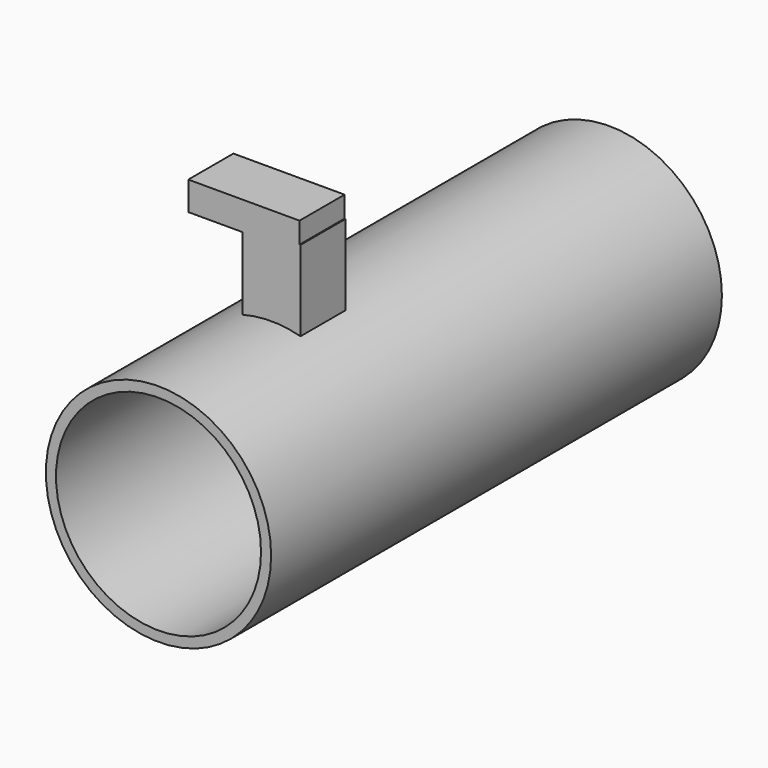
from build123d import *

# Parameters (mm, degrees)
F0_R     = 5.077075
F1_DEPTH = 25.4
F2_R     = 4.621365
F3_DEPTH = 25.4
F5_W     = 2.610316
F5_H     = 3.654443
F6_DEPTH = 2.54
F7_W     = 5.013653
F7_H     = 1.290941
F8_DEPTH = 2.54


with BuildPart() as f1:
    # F0 (on Front) → F1 (new body)
    with BuildSketch(Plane.XZ):
        Circle(F0_R)
    extrude(amount=F1_DEPTH)

    # F2 (on face) → F3 (cut)
    with BuildSketch(Plane.XZ.offset(25.4)):
        Circle(F2_R)
    extrude(amount=-F3_DEPTH, mode=Mode.SUBTRACT)

    # F5 (on offset) → F6 (join)
    with BuildSketch(Plane.XZ.offset(19.05)):
        with Locations((0.015271, 6.700735)):
            Rectangle(F5_W, F5_H)
    extrude(amount=-F6_DEPTH)

    # F7 (on offset) → F8 (join)
    with BuildSketch(Plane.XZ.offset(19.05)):
        with Locations((-1.230061, 8.832033)):
            Rectangle(F7_W, F7_H)
    extrude(amount=-F8_DEPTH)


solid = f1.part
